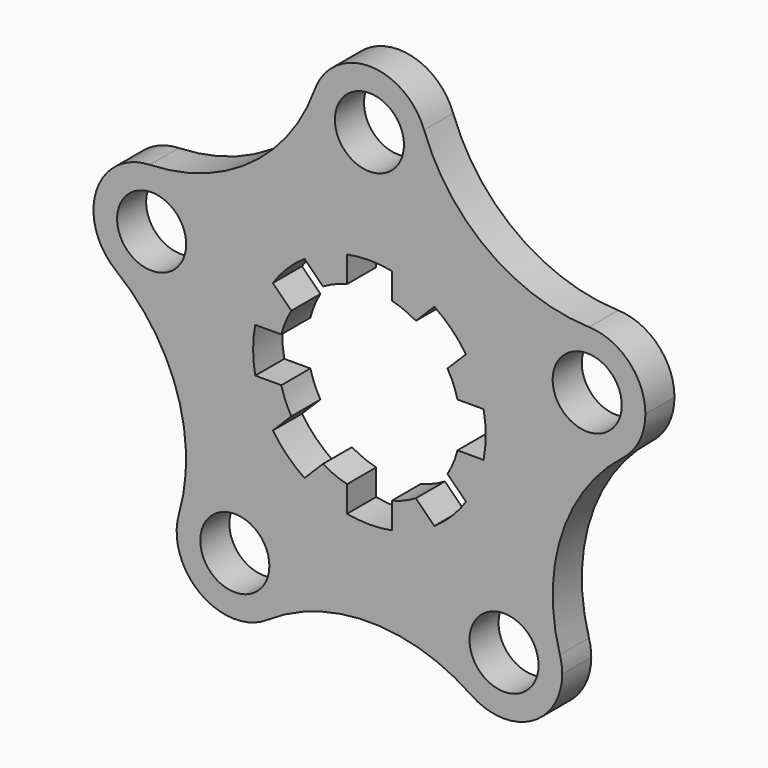
from build123d import *

# Parameters (mm, degrees)
F0_R     = 9.5
F1_DEPTH = 5
F3_DEPTH = 25


with BuildPart() as f1:
    # F0 (on Front) → F1 (new body, symmetric)
    with BuildSketch(Plane.XZ):
        with BuildLine():
            ThreePointArc((-15.047428, 68.438281), (-2.760539, 47.239942), (16, 63))
            ThreePointArc((16, 63), (15.760058, 65.760539), (15.047428, 68.438281))
            ThreePointArc((15.047428, 68.438281), (0, 79), (-15.047428, 68.438281))
        make_face()
        with Locations((0, 63)):
            Circle(F0_R, mode=Mode.SUBTRACT)
        with BuildLine():
            ThreePointArc((15.047428, 68.438281), (15.760058, 65.760539), (16, 63))
            ThreePointArc((16, 63), (-2.760539, 47.239942), (-15.047428, 68.438281))
            ThreePointArc((-15.047428, 68.438281), (-32.681379, 44.98206), (-60.438762, 35.459547))
            ThreePointArc((-60.438762, 35.459547), (-48.78901, 30.964923), (-43.916561, 19.468071))
            ThreePointArc((-43.916561, 19.468071), (-52.886354, 5.095312), (-69.738584, 6.837637))
            ThreePointArc((-69.738584, 6.837637), (-52.879582, -17.181618), (-52.400638, -46.523076))
            ThreePointArc((-52.400638, -46.523076), (-34.785773, -35.126311), (-21.030471, -50.968071))
            ThreePointArc((-21.030471, -50.968071), (-22.894818, -58.463625), (-28.053387, -64.212389))
            ThreePointArc((-28.053387, -64.212389), (0, -55.600883), (28.053387, -64.212389))
            ThreePointArc((28.053387, -64.212389), (27.625907, -38.023799), (52.400638, -46.523076))
            ThreePointArc((52.400638, -46.523076), (52.879582, -17.181618), (69.738584, 6.837637))
            ThreePointArc((69.738584, 6.837637), (44.699656, 14.523799), (60.438762, 35.459547))
            ThreePointArc((60.438762, 35.459547), (32.681379, 44.98206), (15.047428, 68.438281))
        make_face()
        with BuildLine():
            ThreePointArc((75.916561, 19.468071), (71.413413, 30.595621), (60.438762, 35.459547))
            ThreePointArc((60.438762, 35.459547), (44.699656, 14.523799), (69.738584, 6.837637))
            ThreePointArc((69.738584, 6.837637), (74.289319, 12.437864), (75.916561, 19.468071))
        make_face()
        with Locations((59.916561, 19.468071)):
            Circle(F0_R, mode=Mode.SUBTRACT)
        with BuildLine():
            ThreePointArc((-43.916561, 19.468071), (-48.78901, 30.964923), (-60.438762, 35.459547))
            ThreePointArc((-60.438762, 35.459547), (-75.133465, 24.412343), (-69.738584, 6.837637))
            ThreePointArc((-69.738584, 6.837637), (-52.886354, 5.095312), (-43.916561, 19.468071))
        make_face()
        with Locations((-59.916561, 19.468071)):
            Circle(F0_R, mode=Mode.SUBTRACT)
        with BuildLine():
            ThreePointArc((53.030471, -50.968071), (52.87223, -48.723373), (52.400638, -46.523076))
            ThreePointArc((52.400638, -46.523076), (27.625907, -38.023799), (28.053387, -64.212389))
            ThreePointArc((28.053387, -64.212389), (44.526025, -65.103723), (53.030471, -50.968071))
        make_face()
        with Locations((37.030471, -50.968071)):
            Circle(F0_R, mode=Mode.SUBTRACT)
        with BuildLine():
            ThreePointArc((-21.030471, -50.968071), (-34.785773, -35.126311), (-52.400638, -46.523076))
            ThreePointArc((-52.400638, -46.523076), (-46.435035, -63.912343), (-28.053387, -64.212389))
            ThreePointArc((-28.053387, -64.212389), (-22.894818, -58.463625), (-21.030471, -50.968071))
        make_face()
        with Locations((-37.030471, -50.968071)):
            Circle(F0_R, mode=Mode.SUBTRACT)
    extrude(amount=F1_DEPTH, both=True)

    # F2 (on face) → F3 (cut)
    with BuildSketch(Plane.XZ.offset(5)):
        with BuildLine():
            Line((21.483138, 12.785725), (26.554308, 17.856895))
            ThreePointArc((26.554308, 17.856895), (22.627417, 22.627417), (17.856895, 26.554308))
            Line((17.856895, 26.554308), (12.785725, 21.483138))
            ThreePointArc((12.785725, 21.483138), (9.567086, 23.096988), (6.15, 24.231746))
            Line((6.15, 24.231746), (6.15, 31.403463))
            ThreePointArc((6.15, 31.403463), (0, 32), (-6.15, 31.403463))
            Line((-6.15, 31.403463), (-6.15, 24.231746))
            ThreePointArc((-6.15, 24.231746), (-9.567086, 23.096988), (-12.785725, 21.483138))
            Line((-12.785725, 21.483138), (-17.856895, 26.554308))
            ThreePointArc((-17.856895, 26.554308), (-22.627417, 22.627417), (-26.554308, 17.856895))
            Line((-26.554308, 17.856895), (-21.483138, 12.785725))
            ThreePointArc((-21.483138, 12.785725), (-23.096988, 9.567086), (-24.231746, 6.15))
            Line((-24.231746, 6.15), (-31.403463, 6.15))
            ThreePointArc((-31.403463, 6.15), (-32, 0), (-31.403463, -6.15))
            Line((-31.403463, -6.15), (-24.231746, -6.15))
            ThreePointArc((-24.231746, -6.15), (-23.096988, -9.567086), (-21.483138, -12.785725))
            Line((-21.483138, -12.785725), (-26.554308, -17.856895))
            ThreePointArc((-26.554308, -17.856895), (-22.627417, -22.627417), (-17.856895, -26.554308))
            Line((-17.856895, -26.554308), (-12.785725, -21.483138))
            ThreePointArc((-12.785725, -21.483138), (-9.567086, -23.096988), (-6.15, -24.231746))
            Line((-6.15, -24.231746), (-6.15, -31.403463))
            ThreePointArc((-6.15, -31.403463), (0, -32), (6.15, -31.403463))
            Line((6.15, -31.403463), (6.15, -24.231746))
            ThreePointArc((6.15, -24.231746), (9.567086, -23.096988), (12.785725, -21.483138))
            Line((12.785725, -21.483138), (17.856895, -26.554308))
            ThreePointArc((17.856895, -26.554308), (22.627417, -22.627417), (26.554308, -17.856895))
            Line((26.554308, -17.856895), (21.483138, -12.785725))
            ThreePointArc((21.483138, -12.785725), (23.096988, -9.567086), (24.231746, -6.15))
            Line((24.231746, -6.15), (31.403463, -6.15))
            ThreePointArc((31.403463, -6.15), (32, 0), (31.403463, 6.15))
            Line((31.403463, 6.15), (24.231746, 6.15))
            ThreePointArc((24.231746, 6.15), (23.096988, 9.567086), (21.483138, 12.785725))
        make_face()
    extrude(amount=-F3_DEPTH, mode=Mode.SUBTRACT)


solid = f1.part
